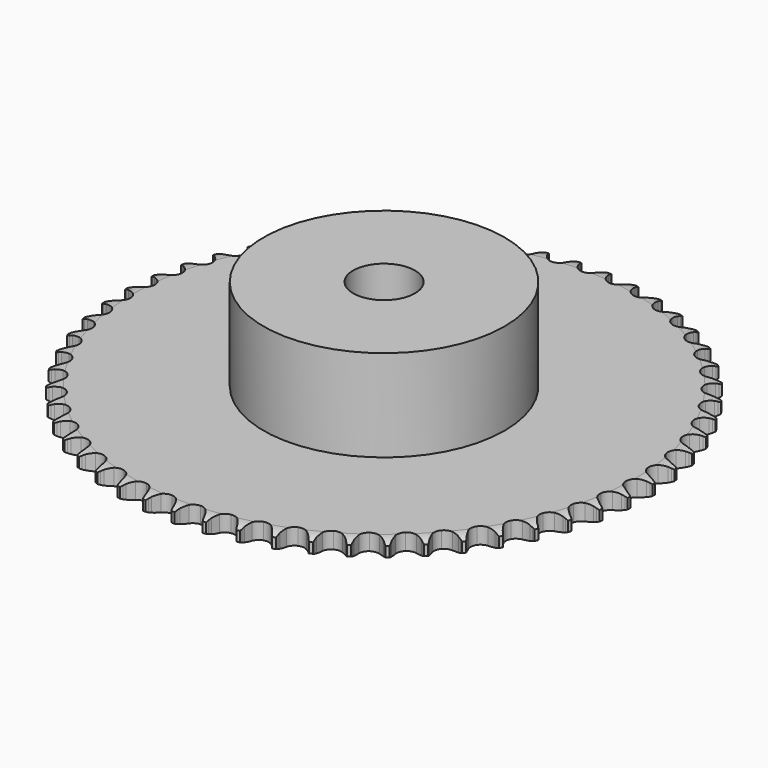
from build123d import *

# Parameters (mm, degrees)
PAD_DEPTH         = 5.3
SKETCH001_R       = 39
PAD001_DEPTH      = 35
SKETCH002_R       = 10
POCKET_DEPTH      = 0.001
POCKET_DEPTH_BACK = 35.001


with BuildPart() as part:
    # Sprocket → Pad (new body)
    with BuildSketch(Plane.XY):
        with BuildLine():
            ThreePointArc((-4.925954, 86.145077), (-4.421445, 85.403677), (-4.054538, 84.585397))
            Line((-4.054538, 84.585397), (-3.746062, 83.695027))
            ThreePointArc((-3.746062, 83.695027), (-3.25838, 82.565603), (-2.609281, 81.520566))
            ThreePointArc((-2.609281, 81.520566), (-1.463641, 80.544452), (0, 80.193677))
            ThreePointArc((0, 80.193677), (1.463641, 80.544452), (2.609281, 81.520566))
            ThreePointArc((2.609281, 81.520566), (3.25838, 82.565603), (3.746062, 83.695027))
            Line((3.746062, 83.695027), (4.054538, 84.585397))
            ThreePointArc((4.054538, 84.585397), (4.421445, 85.403677), (4.925954, 86.145077))
            ThreePointArc((4.925954, 86.145077), (5.34266, 85.351), (5.613899, 84.49623))
            Line((5.613899, 84.49623), (5.81887, 83.5765))
            ThreePointArc((5.81887, 83.5765), (6.174629, 82.398846), (6.700371, 81.286629))
            ThreePointArc((6.700371, 81.286629), (7.727275, 80.186285), (9.14139, 79.670953))
            ThreePointArc((9.14139, 79.670953), (10.635476, 79.8526), (11.884917, 80.691757))
            Line((11.884917, 80.691757), (13.262158, 82.722462))
            ThreePointArc((13.262158, 82.722462), (13.454088, 83.152951), (13.670119, 83.571865))
            ThreePointArc((13.670119, 83.571865), (14.127911, 84.342986), (14.713644, 85.022044))
            ThreePointArc((14.713644, 85.022044), (15.037116, 84.185642), (15.20915, 83.305525))
            Line((15.20915, 83.305525), (15.307944, 82.368425))
            ThreePointArc((15.307944, 82.368425), (15.527141, 81.157894), (15.922674, 79.992996))
            ThreePointArc((15.922674, 79.992996), (16.817454, 78.782766), (18.163609, 78.109597))
            ThreePointArc((18.163609, 78.109597), (19.668662, 78.119746), (21.005615, 78.811009))
            Line((21.005615, 78.811009), (22.605362, 80.671483))
            ThreePointArc((22.605362, 80.671483), (22.845113, 81.077288), (23.107488, 81.468845))
            ThreePointArc((23.107488, 81.468845), (23.650197, 82.182756), (24.309519, 82.790619))
            ThreePointArc((24.309519, 82.790619), (24.53554, 81.922796), (24.606127, 81.028805))
            Line((24.606127, 81.028805), (24.597456, 80.086551))
            ThreePointArc((24.597456, 80.086551), (24.677234, 78.858924), (24.9374, 77.656533))
            ThreePointArc((24.9374, 77.656533), (25.688392, 76.352194), (26.949036, 75.529963))
            ThreePointArc((26.949036, 75.529963), (28.445436, 75.368483), (29.852473, 75.902838))
            Line((29.852473, 75.902838), (31.65387, 77.568828))
            ThreePointArc((31.65387, 77.568828), (31.938316, 77.944658), (32.243616, 78.303754))
            ThreePointArc((32.243616, 78.303754), (32.864167, 78.951148), (33.588483, 79.479891))
            ThreePointArc((33.588483, 79.479891), (33.714106, 78.591961), (33.682326, 77.69575))
            Line((33.682326, 77.69575), (33.566302, 76.760627))
            ThreePointArc((33.566302, 76.760627), (33.505621, 75.531908), (33.627029, 74.307697))
            ThreePointArc((33.627029, 74.307697), (34.224443, 72.926254), (35.383142, 71.96568))
            ThreePointArc((35.383142, 71.96568), (36.851381, 71.634675), (38.310158, 72.005158))
            Line((38.310158, 72.005158), (40.289722, 73.454944))
            ThreePointArc((40.289722, 73.454944), (40.615155, 73.7959), (40.959399, 74.117855))
            ThreePointArc((40.959399, 74.117855), (41.649703, 74.69029), (42.429569, 75.133022))
            ThreePointArc((42.429569, 75.133022), (42.453157, 74.236559), (42.319423, 73.349813))
            Line((42.319423, 73.349813), (42.09756, 72.434011))
            ThreePointArc((42.09756, 72.434011), (41.897211, 71.220218), (41.878278, 69.990148))
            ThreePointArc((41.878278, 69.990148), (42.314325, 68.549609), (43.355975, 67.463214))
            ThreePointArc((43.355975, 67.463214), (44.776912, 66.967001), (46.268412, 67.16878))
            Line((46.268412, 67.16878), (48.400336, 68.383463))
            ThreePointArc((48.400336, 68.383463), (48.762514, 68.6851), (49.141213, 68.965715))
            ThreePointArc((49.141213, 68.965715), (49.89227, 69.455731), (50.717521, 69.806679))
            ThreePointArc((50.717521, 69.806679), (50.638766, 68.91337), (50.404823, 68.047649))
            Line((50.404823, 68.047649), (50.080012, 67.163107))
            ThreePointArc((50.080012, 67.163107), (49.742607, 65.980064), (49.58358, 64.760169))
            ThreePointArc((49.58358, 64.760169), (49.852576, 63.279315), (50.763596, 62.081262))
            ThreePointArc((50.763596, 62.081262), (52.118707, 61.426309), (53.623486, 61.456755))
            Line((53.623486, 61.456755), (55.879977, 62.420499))
            ThreePointArc((55.879977, 62.420499), (56.274178, 62.678885), (56.682397, 62.914502))
            ThreePointArc((56.682397, 62.914502), (57.484416, 63.31571), (58.344292, 63.570299))
            ThreePointArc((58.344292, 63.570299), (58.164222, 62.69179), (57.833118, 61.85838))
            Line((57.833118, 61.85838), (57.409595, 61.016629))
            ThreePointArc((57.409595, 61.016629), (56.939533, 59.879758), (56.642484, 58.685943))
            ThreePointArc((56.642484, 58.685943), (56.740922, 57.184078), (57.509436, 55.889986))
            ThreePointArc((57.509436, 55.889986), (58.781055, 55.084831), (60.279496, 54.943546))
            Line((60.279496, 54.943546), (62.631137, 55.643789))
            ThreePointArc((62.631137, 55.643789), (63.052223, 55.855554), (63.484639, 56.043103))
            ThreePointArc((63.484639, 56.043103), (64.327164, 56.350272), (65.210457, 56.505182))
            ThreePointArc((65.210457, 56.505182), (64.931417, 55.652927), (64.507471, 54.862692))
            Line((64.507471, 54.862692), (63.990755, 54.074706))
            ThreePointArc((63.990755, 54.074706), (63.394164, 52.998829), (62.962967, 51.846656))
            ThreePointArc((62.962967, 51.846656), (62.889563, 50.34336), (63.505553, 48.970099))
            ThreePointArc((63.505553, 48.970099), (64.677102, 48.025238), (66.149671, 47.714065))
            Line((66.149671, 47.714065), (68.565805, 48.141676))
            ThreePointArc((68.565805, 48.141676), (69.008285, 48.304061), (69.459261, 48.441095))
            ThreePointArc((69.459261, 48.441095), (70.33131, 48.650222), (71.226503, 48.703435))
            ThreePointArc((71.226503, 48.703435), (70.852133, 47.888543), (70.34087, 47.151784))
            Line((70.34087, 47.151784), (69.737698, 46.427836))
            ThreePointArc((69.737698, 46.427836), (69.022355, 45.426978), (68.462631, 44.331468))
            ThreePointArc((68.462631, 44.331468), (68.218343, 42.846338), (68.673778, 41.411811))
            ThreePointArc((68.673778, 41.411811), (69.729984, 40.339563), (71.157483, 39.862558))
            Line((71.157483, 39.862558), (73.606612, 40.011963))
            ThreePointArc((73.606612, 40.011963), (74.064719, 40.122851), (74.528376, 40.207584))
            ThreePointArc((74.528376, 40.207584), (75.418579, 40.315941), (76.314003, 40.266763))
            ThreePointArc((76.314003, 40.266763), (75.849182, 39.499858), (75.257267, 38.826182))
            Line((75.257267, 38.826182), (74.575504, 38.175709))
            ThreePointArc((74.575504, 38.175709), (73.750734, 37.262918), (73.06978, 36.238352))
            ThreePointArc((73.06978, 36.238352), (72.657792, 34.790749), (72.946734, 33.313657))
            ThreePointArc((72.946734, 33.313657), (73.873829, 32.128), (75.237649, 31.491381))
            Line((75.237649, 31.491381), (77.687845, 31.360633))
            ThreePointArc((77.687845, 31.360633), (78.155606, 31.418578), (78.6259, 31.449906))
            ThreePointArc((78.6259, 31.449906), (79.522652, 31.456081), (80.406633, 31.305153))
            ThreePointArc((80.406633, 31.305153), (79.857422, 30.596232), (79.192572, 29.99442))
            Line((79.192572, 29.99442), (78.441104, 29.425902))
            ThreePointArc((78.441104, 29.425902), (77.51766, 28.613078), (76.724353, 27.672814))
            ThreePointArc((76.724353, 27.672814), (76.150036, 26.28161), (76.268719, 24.781209))
            ThreePointArc((76.268719, 24.781209), (77.054616, 23.497599), (78.336977, 22.709667))
            Line((78.336977, 22.709667), (80.756298, 22.300469))
            ThreePointArc((80.756298, 22.300469), (81.227615, 22.304716), (81.698414, 22.28223))
            ThreePointArc((81.698414, 22.28223), (82.590025, 22.186143), (83.45104, 21.935432))
            ThreePointArc((83.45104, 21.935432), (82.824598, 21.293738), (82.09548, 20.771636))
            Line((82.09548, 20.771636), (81.284104, 20.292484))
            ThreePointArc((81.284104, 20.292484), (80.274024, 19.590223), (79.378706, 18.746518))
            ThreePointArc((79.378706, 18.746518), (78.649548, 17.429849), (78.596424, 15.9257))
            ThreePointArc((78.596424, 15.9257), (79.230878, 14.560871), (80.415063, 13.631896))
            Line((80.415063, 13.631896), (82.771969, 12.949585))
            ThreePointArc((82.771969, 12.949585), (83.240698, 12.900077), (83.705865, 12.824071))
            ThreePointArc((83.705865, 12.824071), (84.580711, 12.626974), (85.407535, 12.27975))
            ThreePointArc((85.407535, 12.27975), (84.712028, 11.713647), (83.928148, 11.278061))
            Line((83.928148, 11.278061), (83.067442, 10.894523))
            ThreePointArc((83.067442, 10.894523), (81.983894, 10.311979), (80.998237, 9.575833))
            ThreePointArc((80.998237, 9.575833), (80.123742, 8.350864), (79.899505, 6.862575))
            ThreePointArc((79.899505, 6.862575), (80.374244, 5.43432), (81.444816, 4.376414))
            Line((81.444816, 4.376414), (83.70858, 3.429882))
            ThreePointArc((83.70858, 3.429882), (84.168611, 3.327267), (84.622082, 3.198731))
            ThreePointArc((84.622082, 3.198731), (85.468759, 2.903194), (86.250612, 2.463982))
            ThreePointArc((86.250612, 2.463982), (85.495108, 1.980851), (84.666684, 1.63746))
            Line((84.666684, 1.63746), (83.767868, 1.354535))
            ThreePointArc((83.767868, 1.354535), (82.624979, 0.899304), (81.561832, 0.280311))
            ThreePointArc((81.561832, 0.280311), (80.553401, -0.836987), (80.160973, -2.290015))
            ThreePointArc((80.160973, -2.290015), (80.46981, -3.763076), (81.41281, -4.936122))
            Line((81.41281, -4.936122), (83.553923, -6.134534))
            ThreePointArc((83.553923, -6.134534), (83.999257, -6.28892), (84.435121, -6.46831))
            ThreePointArc((84.435121, -6.46831), (85.24259, -6.858434), (85.969281, -7.383908))
            ThreePointArc((85.969281, -7.383908), (85.163628, -7.777769), (84.301461, -8.024488))
            Line((84.301461, -8.024488), (83.376253, -8.203112))
            ThreePointArc((83.376253, -8.203112), (82.18892, -8.525096), (81.062143, -9.018864))
            ThreePointArc((81.062143, -9.018864), (79.932924, -10.013927), (79.377421, -11.41275))
            ThreePointArc((79.377421, -11.41275), (79.516328, -12.911414), (80.319464, -14.184308))
            Line((80.319464, -14.184308), (82.310012, -15.618977))
            ThreePointArc((82.310012, -15.618977), (82.734845, -15.823121), (83.147419, -16.051026))
            ThreePointArc((83.147419, -16.051026), (83.905153, -16.530652), (84.567208, -17.135537))
            ThreePointArc((84.567208, -17.135537), (83.72191, -17.434993), (82.837239, -17.581825))
            Line((82.837239, -17.581825), (81.8977, -17.653818))
            ThreePointArc((81.8977, -17.653818), (80.681403, -17.838358), (79.505686, -18.200465))
            ThreePointArc((79.505686, -18.200465), (78.270398, -19.060321), (77.559062, -20.386703))
            ThreePointArc((77.559062, -20.386703), (77.526229, -21.891432), (78.179032, -23.24758))
            Line((78.179032, -23.24758), (79.993065, -24.899802))
            ThreePointArc((79.993065, -24.899802), (80.391858, -25.151043), (80.775763, -25.424493))
            ThreePointArc((80.775763, -25.424493), (81.473885, -25.987368), (82.062672, -26.663779))
            ThreePointArc((82.062672, -26.663779), (81.188749, -26.864926), (80.293107, -26.909955))
            Line((80.293107, -26.909955), (79.351485, -26.87438))
            ThreePointArc((79.351485, -26.87438), (78.122081, -26.91907), (76.91275, -27.144794))
            ThreePointArc((76.91275, -27.144794), (75.587498, -27.858233), (74.729603, -29.094884))
            ThreePointArc((74.729603, -29.094884), (74.525457, -30.586062), (75.019416, -32.007784))
            Line((75.019416, -32.007784), (76.633285, -33.856021))
            ThreePointArc((76.633285, -33.856021), (77.000839, -34.151083), (77.351071, -34.466512))
            ThreePointArc((77.351071, -34.466512), (77.98048, -35.105298), (78.488324, -35.844417))
            ThreePointArc((78.488324, -35.844417), (77.597168, -35.944633), (76.702231, -35.887274))
            Line((76.702231, -35.887274), (75.770803, -35.744594))
            ThreePointArc((75.770803, -35.744594), (74.544318, -35.64885), (73.317139, -35.73525))
            ThreePointArc((73.317139, -35.73525), (71.919199, -36.292972), (70.925929, -37.423769))
            ThreePointArc((70.925929, -37.423769), (70.553132, -38.881956), (70.881807, -40.350718))
            Line((70.881807, -40.350718), (72.274473, -42.370875))
            ThreePointArc((72.274473, -42.370875), (72.605997, -42.705912), (72.91799, -43.059208))
            ThreePointArc((72.91799, -43.059208), (73.47048, -43.765577), (73.890761, -44.557768))
            ThreePointArc((73.890761, -44.557768), (72.99399, -44.555747), (72.111425, -44.396746))
            Line((72.111425, -44.396746), (71.202332, -44.148822))
            ThreePointArc((71.202332, -44.148822), (69.994755, -43.913894), (68.765727, -43.859842))
            ThreePointArc((68.765727, -43.859842), (67.313324, -44.254575), (66.197627, -45.264777))
            ThreePointArc((66.197627, -45.264777), (65.661039, -46.670964), (65.820145, -48.167619))
            Line((65.820145, -48.167619), (66.973454, -50.333359))
            ThreePointArc((66.973454, -50.333359), (67.264625, -50.704003), (67.534312, -51.090561))
            ThreePointArc((67.534312, -51.090561), (68.00268, -51.855305), (68.329919, -52.690241))
            ThreePointArc((68.329919, -52.690241), (67.439224, -52.586009), (66.580536, -52.32744))
            Line((66.580536, -52.32744), (65.70563, -51.977502))
            ThreePointArc((65.70563, -51.977502), (64.532704, -51.606452), (63.317848, -51.412654))
            ThreePointArc((63.317848, -51.412654), (61.829916, -51.639253), (60.606337, -52.51569))
            ThreePointArc((60.606337, -52.51569), (59.912954, -53.851545), (59.900417, -55.35658))
            Line((59.900417, -55.35658), (60.799332, -57.639672))
            ThreePointArc((60.799332, -57.639672), (61.046356, -58.041091), (61.27022, -58.455871))
            ThreePointArc((61.27022, -58.455871), (61.648361, -59.26902), (61.878292, -60.135816))
            ThreePointArc((61.878292, -60.135816), (61.005283, -59.930732), (60.181668, -59.575965))
            Line((60.181668, -59.575965), (59.352355, -59.128576))
            ThreePointArc((59.352355, -59.128576), (58.229371, -58.626242), (57.044525, -58.295224))
            ThreePointArc((57.044525, -58.295224), (55.540461, -58.350734), (54.224952, -59.081981))
            ThreePointArc((54.224952, -59.081981), (53.383812, -60.330089), (53.199796, -61.823885))
            Line((53.199796, -61.823885), (53.832599, -64.194563))
            ThreePointArc((53.832599, -64.194563), (54.032254, -64.621524), (54.207377, -65.059119))
            ThreePointArc((54.207377, -65.059119), (54.490362, -65.910073), (54.619986, -66.797428))
            ThreePointArc((54.619986, -66.797428), (53.776046, -66.494166), (52.99824, -66.047826))
            Line((52.99824, -66.047826), (52.22533, -65.508819))
            ThreePointArc((52.22533, -65.508819), (51.166929, -64.881748), (50.027539, -64.417826))
            ThreePointArc((50.027539, -64.417826), (48.526952, -64.301524), (47.136661, -64.878048))
            ThreePointArc((47.136661, -64.878048), (46.158731, -66.022137), (45.805634, -67.48522))
            Line((45.805634, -67.48522), (46.164075, -69.912579))
            ThreePointArc((46.164075, -69.912579), (46.313759, -70.359516), (46.437859, -70.814222))
            ThreePointArc((46.437859, -70.814222), (46.621997, -71.691886), (46.649625, -72.588234))
            ThreePointArc((46.649625, -72.588234), (45.845756, -72.190746), (45.123898, -71.658653))
            Line((45.123898, -71.658653), (44.417469, -71.035055))
            ThreePointArc((44.417469, -71.035055), (43.437447, -70.291422), (42.358367, -69.700643))
            ThreePointArc((42.358367, -69.700643), (40.880819, -69.414045), (39.433871, -69.82833))
            ThreePointArc((39.433871, -69.82833), (38.331899, -70.853486), (37.814325, -72.266782))
            Line((37.814325, -72.266782), (37.893732, -74.719178))
            ThreePointArc((37.893732, -74.719178), (37.991493, -75.180265), (38.062951, -75.646153))
            ThreePointArc((38.062951, -75.646153), (38.145844, -76.539087), (38.071116, -77.432741))
            ThreePointArc((38.071116, -77.432741), (37.317796, -76.94621), (36.661298, -76.335299))
            Line((36.661298, -76.335299), (36.030558, -75.635239))
            ThreePointArc((36.030558, -75.635239), (35.141692, -74.78474), (34.13699, -74.074806))
            ThreePointArc((34.13699, -74.074806), (32.701742, -73.621648), (31.217001, -73.868293))
            ThreePointArc((31.217001, -73.868293), (30.005353, -74.761152), (29.330049, -76.106236))
            Line((29.330049, -76.106236), (29.129386, -78.551699))
            ThreePointArc((29.129386, -78.551699), (29.17395, -79.020924), (29.191835, -79.491921))
            ThreePointArc((29.191835, -79.491921), (29.1724, -80.388483), (28.996291, -81.267794))
            ThreePointArc((28.996291, -81.267794), (28.303342, -80.698563), (27.720761, -80.016799))
            Line((27.720761, -80.016799), (27.173934, -79.249403))
            ThreePointArc((27.173934, -79.249403), (26.387811, -78.303124), (25.470584, -77.483291))
            ThreePointArc((25.470584, -77.483291), (24.096348, -76.869481), (22.59317, -76.94527))
            ThreePointArc((22.59317, -76.94527), (21.287641, -77.694191), (20.463411, -78.953529))
            Line((20.463411, -78.953529), (19.985294, -81.360178))
            ThreePointArc((19.985294, -81.360178), (19.97608, -81.831424), (19.940159, -82.30139))
            ThreePointArc((19.940159, -82.30139), (19.81865, -83.189893), (19.543455, -84.043398))
            ThreePointArc((19.543455, -84.043398), (18.91991, -83.398886), (18.418842, -82.655157))
            Line((18.418842, -82.655157), (17.963056, -81.830429))
            ThreePointArc((17.963056, -81.830429), (17.289925, -80.800708), (16.472131, -79.881662))
            ThreePointArc((16.472131, -79.881662), (15.176821, -79.115202), (13.674802, -79.019147))
            ThreePointArc((13.674802, -79.019147), (12.292412, -79.614368), (11.330001, -80.771542))
            Line((11.330001, -80.771542), (10.580663, -83.108003))
            ThreePointArc((10.580663, -83.108003), (10.517791, -83.575127), (10.428532, -84.037934))
            ThreePointArc((10.428532, -84.037934), (10.206534, -84.906795), (9.83584, -85.723366))
            ThreePointArc((9.83584, -85.723366), (9.289829, -85.011977), (8.876806, -84.215978))
            Line((8.876806, -84.215978), (8.518002, -83.344671))
            ThreePointArc((8.518002, -83.344671), (7.966638, -82.24493), (7.258938, -81.238653))
            ThreePointArc((7.258938, -81.238653), (6.059441, -80.329535), (4.578162, -80.062889))
            ThreePointArc((4.578162, -80.062889), (3.136933, -80.49665), (2.048887, -81.536575))
            Line((2.048887, -81.536575), (1.038097, -83.772387))
            ThreePointArc((1.038097, -83.772387), (0.922387, -84.2293), (0.780954, -84.678916))
            ThreePointArc((0.780954, -84.678916), (0.46136, -85.516807), (0, -86.2858))
            ThreePointArc((0, -86.2858), (-0.46136, -85.516807), (-0.780954, -84.678916))
            Line((-0.780954, -84.678916), (-1.038097, -83.772387))
            ThreePointArc((-1.038097, -83.772387), (-1.460506, -82.616964), (-2.048887, -81.536575))
            ThreePointArc((-2.048887, -81.536575), (-3.136933, -80.49665), (-4.578162, -80.062889))
            ThreePointArc((-4.578162, -80.062889), (-6.059441, -80.329535), (-7.258938, -81.238653))
            Line((-7.258938, -81.238653), (-8.518002, -83.344671))
            ThreePointArc((-8.518002, -83.344671), (-8.685042, -83.785415), (-8.876806, -84.215978))
            ThreePointArc((-8.876806, -84.215978), (-9.289829, -85.011977), (-9.83584, -85.723366))
            ThreePointArc((-9.83584, -85.723366), (-10.206534, -84.906795), (-10.428532, -84.037934))
            Line((-10.428532, -84.037934), (-10.580663, -83.108003))
            ThreePointArc((-10.580663, -83.108003), (-10.868611, -81.91196), (-11.330001, -80.771542))
            ThreePointArc((-11.330001, -80.771542), (-12.292412, -79.614368), (-13.674802, -79.019147))
            ThreePointArc((-13.674802, -79.019147), (-15.176821, -79.115202), (-16.472131, -79.881662))
            Line((-16.472131, -79.881662), (-17.963056, -81.830429))
            ThreePointArc((-17.963056, -81.830429), (-18.179249, -82.249259), (-18.418842, -82.655157))
            ThreePointArc((-18.418842, -82.655157), (-18.91991, -83.398886), (-19.543455, -84.043398))
            ThreePointArc((-19.543455, -84.043398), (-19.81865, -83.189893), (-19.940159, -82.30139))
            Line((-19.940159, -82.30139), (-19.985294, -81.360178))
            ThreePointArc((-19.985294, -81.360178), (-20.135026, -80.139108), (-20.463411, -78.953529))
            ThreePointArc((-20.463411, -78.953529), (-21.287641, -77.694191), (-22.59317, -76.94527))
            ThreePointArc((-22.59317, -76.94527), (-24.096348, -76.869481), (-25.470584, -77.483291))
            Line((-25.470584, -77.483291), (-27.173934, -79.249403))
            ThreePointArc((-27.173934, -79.249403), (-27.43646, -79.640859), (-27.720761, -80.016799))
            ThreePointArc((-27.720761, -80.016799), (-28.303342, -80.698563), (-28.996291, -81.267794))
            ThreePointArc((-28.996291, -81.267794), (-29.1724, -80.388483), (-29.191835, -79.491921))
            Line((-29.191835, -79.491921), (-29.129386, -78.551699))
            ThreePointArc((-29.129386, -78.551699), (-29.13895, -77.32152), (-29.330049, -76.106236))
            ThreePointArc((-29.330049, -76.106236), (-30.005353, -74.761152), (-31.217001, -73.868293))
            ThreePointArc((-31.217001, -73.868293), (-32.701742, -73.621648), (-34.13699, -74.074806))
            Line((-34.13699, -74.074806), (-36.030558, -75.635239))
            ThreePointArc((-36.030558, -75.635239), (-36.335996, -75.994218), (-36.661298, -76.335299))
            ThreePointArc((-36.661298, -76.335299), (-37.317796, -76.94621), (-38.071116, -77.432741))
            ThreePointArc((-38.071116, -77.432741), (-38.145844, -76.539087), (-38.062951, -75.646153))
            Line((-38.062951, -75.646153), (-37.893732, -74.719178))
            ThreePointArc((-37.893732, -74.719178), (-37.763004, -73.495928), (-37.814325, -72.266782))
            ThreePointArc((-37.814325, -72.266782), (-38.331899, -70.853486), (-39.433871, -69.82833))
            ThreePointArc((-39.433871, -69.82833), (-40.880819, -69.414045), (-42.358367, -69.700643))
            Line((-42.358367, -69.700643), (-44.417469, -71.035055))
            ThreePointArc((-44.417469, -71.035055), (-44.761837, -71.356876), (-45.123898, -71.658653))
            ThreePointArc((-45.123898, -71.658653), (-45.845756, -72.190746), (-46.649625, -72.588234))
            ThreePointArc((-46.649625, -72.588234), (-46.621997, -71.691886), (-46.437859, -70.814222))
            Line((-46.437859, -70.814222), (-46.164075, -69.912579))
            ThreePointArc((-46.164075, -69.912579), (-45.894759, -68.712204), (-45.805634, -67.48522))
            ThreePointArc((-45.805634, -67.48522), (-46.158731, -66.022137), (-47.136661, -64.878048))
            ThreePointArc((-47.136661, -64.878048), (-48.526952, -64.301524), (-50.027539, -64.417826))
            Line((-50.027539, -64.417826), (-52.22533, -65.508819))
            ThreePointArc((-52.22533, -65.508819), (-52.604138, -65.789288), (-52.99824, -66.047826))
            ThreePointArc((-52.99824, -66.047826), (-53.776046, -66.494166), (-54.619986, -66.797428))
            ThreePointArc((-54.619986, -66.797428), (-54.490362, -65.910073), (-54.207377, -65.059119))
            Line((-54.207377, -65.059119), (-53.832599, -64.194563))
            ThreePointArc((-53.832599, -64.194563), (-53.428206, -63.032711), (-53.199796, -61.823885))
            ThreePointArc((-53.199796, -61.823885), (-53.383812, -60.330089), (-54.224952, -59.081981))
            ThreePointArc((-54.224952, -59.081981), (-55.540461, -58.350734), (-57.044525, -58.295224))
            Line((-57.044525, -58.295224), (-59.352355, -59.128576))
            ThreePointArc((-59.352355, -59.128576), (-59.760664, -59.364036), (-60.181668, -59.575965))
            ThreePointArc((-60.181668, -59.575965), (-61.005283, -59.930732), (-61.878292, -60.135816))
            ThreePointArc((-61.878292, -60.135816), (-61.648361, -59.26902), (-61.27022, -58.455871))
            Line((-61.27022, -58.455871), (-60.799332, -57.639672))
            ThreePointArc((-60.799332, -57.639672), (-60.265134, -56.531491), (-59.900417, -55.35658))
            ThreePointArc((-59.900417, -55.35658), (-59.912954, -53.851545), (-60.606337, -52.51569))
            ThreePointArc((-60.606337, -52.51569), (-61.829916, -51.639253), (-63.317848, -51.412654))
            Line((-63.317848, -51.412654), (-65.70563, -51.977502))
            ThreePointArc((-65.70563, -51.977502), (-66.138118, -52.164883), (-66.580536, -52.32744))
            ThreePointArc((-66.580536, -52.32744), (-67.439224, -52.586009), (-68.329919, -52.690241))
            ThreePointArc((-68.329919, -52.690241), (-68.00268, -51.855305), (-67.534312, -51.090561))
            Line((-67.534312, -51.090561), (-66.973454, -50.333359))
            ThreePointArc((-66.973454, -50.333359), (-66.316414, -49.293296), (-65.820145, -48.167619))
            ThreePointArc((-65.820145, -48.167619), (-65.661039, -46.670964), (-66.197627, -45.264777))
            ThreePointArc((-66.197627, -45.264777), (-67.313324, -44.254575), (-68.765727, -43.859842))
            Line((-68.765727, -43.859842), (-71.202332, -44.148822))
            ThreePointArc((-71.202332, -44.148822), (-71.653361, -44.285682), (-72.111425, -44.396746))
            ThreePointArc((-72.111425, -44.396746), (-72.99399, -44.555747), (-73.890761, -44.557768))
            ThreePointArc((-73.890761, -44.557768), (-73.47048, -43.765577), (-72.91799, -43.059208))
            Line((-72.91799, -43.059208), (-72.274473, -42.370875))
            ThreePointArc((-72.274473, -42.370875), (-71.503159, -41.412487), (-70.881807, -40.350718))
            ThreePointArc((-70.881807, -40.350718), (-70.553132, -38.881956), (-70.925929, -37.423769))
            ThreePointArc((-70.925929, -37.423769), (-71.919199, -36.292972), (-73.317139, -35.73525))
            Line((-73.317139, -35.73525), (-75.770803, -35.744594))
            ThreePointArc((-75.770803, -35.744594), (-76.234493, -35.829148), (-76.702231, -35.887274))
            ThreePointArc((-76.702231, -35.887274), (-77.597168, -35.944633), (-78.488324, -35.844417))
            ThreePointArc((-78.488324, -35.844417), (-77.98048, -35.105298), (-77.351071, -34.466512))
            Line((-77.351071, -34.466512), (-76.633285, -33.856021))
            ThreePointArc((-76.633285, -33.856021), (-75.75775, -32.991804), (-75.019416, -32.007784))
            ThreePointArc((-75.019416, -32.007784), (-74.525457, -30.586062), (-74.729603, -29.094884))
            ThreePointArc((-74.729603, -29.094884), (-75.587498, -27.858233), (-76.91275, -27.144794))
            Line((-76.91275, -27.144794), (-79.351485, -26.87438))
            ThreePointArc((-79.351485, -26.87438), (-79.821791, -26.905527), (-80.293107, -26.909955))
            ThreePointArc((-80.293107, -26.909955), (-81.188749, -26.864926), (-82.062672, -26.663779))
            ThreePointArc((-82.062672, -26.663779), (-81.473885, -25.987368), (-80.775763, -25.424493))
            Line((-80.775763, -25.424493), (-79.993065, -24.899802))
            ThreePointArc((-79.993065, -24.899802), (-79.024723, -24.141022), (-78.179032, -23.24758))
            ThreePointArc((-78.179032, -23.24758), (-77.526229, -21.891432), (-77.559062, -20.386703))
            ThreePointArc((-77.559062, -20.386703), (-78.270398, -19.060321), (-79.505686, -18.200465))
            Line((-79.505686, -18.200465), (-81.8977, -17.653818))
            ThreePointArc((-81.8977, -17.653818), (-82.368491, -17.631151), (-82.837239, -17.581825))
            ThreePointArc((-82.837239, -17.581825), (-83.72191, -17.434993), (-84.567208, -17.135537))
            ThreePointArc((-84.567208, -17.135537), (-83.905153, -16.530652), (-83.147419, -16.051026))
            Line((-83.147419, -16.051026), (-82.310012, -15.618977))
            ThreePointArc((-82.310012, -15.618977), (-81.261488, -14.975525), (-80.319464, -14.184308))
            ThreePointArc((-80.319464, -14.184308), (-79.516328, -12.911414), (-79.377421, -11.41275))
            ThreePointArc((-79.377421, -11.41275), (-79.932924, -10.013927), (-81.062143, -9.018864))
            Line((-81.062143, -9.018864), (-83.376253, -8.203112))
            ThreePointArc((-83.376253, -8.203112), (-83.841391, -8.126926), (-84.301461, -8.024488))
            ThreePointArc((-84.301461, -8.024488), (-85.163628, -7.777769), (-85.969281, -7.383908))
            ThreePointArc((-85.969281, -7.383908), (-85.24259, -6.858434), (-84.435121, -6.46831))
            Line((-84.435121, -6.46831), (-83.553923, -6.134534))
            ThreePointArc((-83.553923, -6.134534), (-82.438886, -5.614799), (-81.41281, -4.936122))
            ThreePointArc((-81.41281, -4.936122), (-80.46981, -3.763076), (-80.160973, -2.290015))
            ThreePointArc((-80.160973, -2.290015), (-80.553401, -0.836987), (-81.561832, 0.280311))
            Line((-81.561832, 0.280311), (-83.767868, 1.354535))
            ThreePointArc((-83.767868, 1.354535), (-84.22129, 1.483246), (-84.666684, 1.63746))
            ThreePointArc((-84.666684, 1.63746), (-85.495108, 1.980851), (-86.250612, 2.463982))
            ThreePointArc((-86.250612, 2.463982), (-85.468759, 2.903194), (-84.622082, 3.198731))
            Line((-84.622082, 3.198731), (-83.70858, 3.429882))
            ThreePointArc((-83.70858, 3.429882), (-82.541566, 3.819125), (-81.444816, 4.376414))
            ThreePointArc((-81.444816, 4.376414), (-80.374244, 5.43432), (-79.899505, 6.862575))
            ThreePointArc((-79.899505, 6.862575), (-80.123742, 8.350864), (-80.998237, 9.575833))
            Line((-80.998237, 9.575833), (-83.067442, 10.894523))
            ThreePointArc((-83.067442, 10.894523), (-83.503236, 11.074081), (-83.928148, 11.278061))
            ThreePointArc((-83.928148, 11.278061), (-84.712028, 11.713647), (-85.407535, 12.27975))
            ThreePointArc((-85.407535, 12.27975), (-84.580711, 12.626974), (-83.705865, 12.824071))
            Line((-83.705865, 12.824071), (-82.771969, 12.949585))
            ThreePointArc((-82.771969, 12.949585), (-81.568191, 13.20326), (-80.415063, 13.631896))
            ThreePointArc((-80.415063, 13.631896), (-79.230878, 14.560871), (-78.596424, 15.9257))
            ThreePointArc((-78.596424, 15.9257), (-78.649548, 17.429849), (-79.378706, 18.746518))
            Line((-79.378706, 18.746518), (-81.284104, 20.292484))
            ThreePointArc((-81.284104, 20.292484), (-81.69659, 20.520549), (-82.09548, 20.771636))
            ThreePointArc((-82.09548, 20.771636), (-82.824598, 21.293738), (-83.45104, 21.935432))
            ThreePointArc((-83.45104, 21.935432), (-82.590025, 22.186143), (-81.698414, 22.28223))
            Line((-81.698414, 22.28223), (-80.756298, 22.300469))
            ThreePointArc((-80.756298, 22.300469), (-79.53145, 22.415271), (-78.336977, 22.709667))
            ThreePointArc((-78.336977, 22.709667), (-77.054616, 23.497599), (-76.268719, 24.781209))
            ThreePointArc((-76.268719, 24.781209), (-76.150036, 26.28161), (-76.724353, 27.672814))
            Line((-76.724353, 27.672814), (-78.441104, 29.425902))
            ThreePointArc((-78.441104, 29.425902), (-78.824904, 29.6995), (-79.192572, 29.99442))
            ThreePointArc((-79.192572, 29.99442), (-79.857422, 30.596232), (-80.406633, 31.305153))
            ThreePointArc((-80.406633, 31.305153), (-79.522652, 31.456081), (-78.6259, 31.449906))
            Line((-78.6259, 31.449906), (-77.687845, 31.360633))
            ThreePointArc((-77.687845, 31.360633), (-76.457894, 31.335064), (-75.237649, 31.491381))
            ThreePointArc((-75.237649, 31.491381), (-73.873829, 32.128), (-72.946734, 33.313657))
            ThreePointArc((-72.946734, 33.313657), (-72.657792, 34.790749), (-73.06978, 36.238352))
            Line((-73.06978, 36.238352), (-74.575504, 38.175709))
            ThreePointArc((-74.575504, 38.175709), (-74.925614, 38.491273), (-75.257267, 38.826182))
            ThreePointArc((-75.257267, 38.826182), (-75.849182, 39.499858), (-76.314003, 40.266763))
            ThreePointArc((-76.314003, 40.266763), (-75.418579, 40.315941), (-74.528376, 40.207584))
            Line((-74.528376, 40.207584), (-73.606612, 40.011963))
            ThreePointArc((-73.606612, 40.011963), (-72.387593, 39.846357), (-71.157483, 39.862558))
            ThreePointArc((-71.157483, 39.862558), (-69.729984, 40.339563), (-68.673778, 41.411811))
            ThreePointArc((-68.673778, 41.411811), (-68.218343, 42.846338), (-68.462631, 44.331468))
            Line((-68.462631, 44.331468), (-69.737698, 46.427836))
            ThreePointArc((-69.737698, 46.427836), (-70.049555, 46.781253), (-70.34087, 47.151784))
            ThreePointArc((-70.34087, 47.151784), (-70.852133, 47.888543), (-71.226503, 48.703435))
            ThreePointArc((-71.226503, 48.703435), (-70.33131, 48.650222), (-69.459261, 48.441095))
            Line((-69.459261, 48.441095), (-68.565805, 48.141676))
            ThreePointArc((-68.565805, 48.141676), (-67.373609, 47.838192), (-66.149671, 47.714065))
            ThreePointArc((-66.149671, 47.714065), (-64.677102, 48.025238), (-63.505553, 48.970099))
            ThreePointArc((-63.505553, 48.970099), (-62.889563, 50.34336), (-62.962967, 51.846656))
            Line((-62.962967, 51.846656), (-63.990755, 54.074706))
            ThreePointArc((-63.990755, 54.074706), (-64.260292, 54.461368), (-64.507471, 54.862692))
            ThreePointArc((-64.507471, 54.862692), (-64.931417, 55.652927), (-65.210457, 56.505182))
            ThreePointArc((-65.210457, 56.505182), (-64.327164, 56.350272), (-63.484639, 56.043103))
            Line((-63.484639, 56.043103), (-62.631137, 55.643789))
            ThreePointArc((-62.631137, 55.643789), (-61.481307, 55.206383), (-60.279496, 54.943546))
            ThreePointArc((-60.279496, 54.943546), (-58.781055, 55.084831), (-57.509436, 55.889986))
            ThreePointArc((-57.509436, 55.889986), (-56.740922, 57.184078), (-56.642484, 58.685943))
            Line((-56.642484, 58.685943), (-57.409595, 61.016629))
            ThreePointArc((-57.409595, 61.016629), (-57.633299, 61.431496), (-57.833118, 61.85838))
            ThreePointArc((-57.833118, 61.85838), (-58.164222, 62.69179), (-58.344292, 63.570299))
            ThreePointArc((-58.344292, 63.570299), (-57.484416, 63.31571), (-56.682397, 62.914502))
            Line((-56.682397, 62.914502), (-55.879977, 62.420499))
            ThreePointArc((-55.879977, 62.420499), (-54.787502, 61.854874), (-53.623486, 61.456755))
            ThreePointArc((-53.623486, 61.456755), (-52.118707, 61.426309), (-50.763596, 62.081262))
            ThreePointArc((-50.763596, 62.081262), (-49.852576, 63.279315), (-49.58358, 64.760169))
            Line((-49.58358, 64.760169), (-50.080012, 67.163107))
            ThreePointArc((-50.080012, 67.163107), (-50.254967, 67.60077), (-50.404823, 68.047649))
            ThreePointArc((-50.404823, 68.047649), (-50.638766, 68.91337), (-50.717521, 69.806679))
            ThreePointArc((-50.717521, 69.806679), (-49.89227, 69.455731), (-49.141213, 68.965715))
            Line((-49.141213, 68.965715), (-48.400336, 68.383463))
            ThreePointArc((-48.400336, 68.383463), (-47.379459, 67.696992), (-46.268412, 67.16878))
            ThreePointArc((-46.268412, 67.16878), (-44.776912, 66.967001), (-43.355975, 67.463214))
            ThreePointArc((-43.355975, 67.463214), (-42.314325, 68.549609), (-41.878278, 69.990148))
            Line((-41.878278, 69.990148), (-42.09756, 72.434011))
            ThreePointArc((-42.09756, 72.434011), (-42.221484, 72.888765), (-42.319423, 73.349813))
            ThreePointArc((-42.319423, 73.349813), (-42.453157, 74.236559), (-42.429569, 75.133022))
            ThreePointArc((-42.429569, 75.133022), (-41.649703, 74.69029), (-40.959399, 74.117855))
            Line((-40.959399, 74.117855), (-40.289722, 73.454944))
            ThreePointArc((-40.289722, 73.454944), (-39.353751, 72.656576), (-38.310158, 72.005158))
            ThreePointArc((-38.310158, 72.005158), (-36.851381, 71.634675), (-35.383142, 71.96568))
            ThreePointArc((-35.383142, 71.96568), (-34.224443, 72.926254), (-33.627029, 74.307697))
            Line((-33.627029, 74.307697), (-33.566302, 76.760627))
            ThreePointArc((-33.566302, 76.760627), (-33.637581, 77.226543), (-33.682326, 77.69575))
            ThreePointArc((-33.682326, 77.69575), (-33.714106, 78.591961), (-33.588483, 79.479891))
            ThreePointArc((-33.588483, 79.479891), (-32.864167, 78.951148), (-32.243616, 78.303754))
            Line((-32.243616, 78.303754), (-31.65387, 77.568828))
            ThreePointArc((-31.65387, 77.568828), (-30.815008, 76.668971), (-29.852473, 75.902838))
            ThreePointArc((-29.852473, 75.902838), (-28.445436, 75.368483), (-26.949036, 75.529963))
            ThreePointArc((-26.949036, 75.529963), (-25.688392, 76.352194), (-24.9374, 77.656533))
            Line((-24.9374, 77.656533), (-24.597456, 80.086551))
            ThreePointArc((-24.597456, 80.086551), (-24.615159, 80.557555), (-24.606127, 81.028805))
            ThreePointArc((-24.606127, 81.028805), (-24.53554, 81.922796), (-24.309519, 82.790619))
            ThreePointArc((-24.309519, 82.790619), (-23.650197, 82.182756), (-23.107488, 81.468845))
            Line((-23.107488, 81.468845), (-22.605362, 80.671483))
            ThreePointArc((-22.605362, 80.671483), (-21.874543, 79.681869), (-21.005615, 78.811009))
            ThreePointArc((-21.005615, 78.811009), (-19.668662, 78.119746), (-18.163609, 78.109597))
            ThreePointArc((-18.163609, 78.109597), (-16.817454, 78.782766), (-15.922674, 79.992996))
            Line((-15.922674, 79.992996), (-15.307944, 82.368425))
            ThreePointArc((-15.307944, 82.368425), (-15.271842, 82.838376), (-15.20915, 83.305525))
            ThreePointArc((-15.20915, 83.305525), (-15.037116, 84.185642), (-14.713644, 85.022044))
            ThreePointArc((-14.713644, 85.022044), (-14.127911, 84.342986), (-13.670119, 83.571865))
            Line((-13.670119, 83.571865), (-13.262158, 82.722462))
            ThreePointArc((-13.262158, 82.722462), (-12.64891, 81.655991), (-11.884917, 80.691757))
            ThreePointArc((-11.884917, 80.691757), (-10.635476, 79.8526), (-9.14139, 79.670953))
            ThreePointArc((-9.14139, 79.670953), (-7.727275, 80.186285), (-6.700371, 81.286629))
            Line((-6.700371, 81.286629), (-5.81887, 83.5765))
            ThreePointArc((-5.81887, 83.5765), (-5.729433, 84.039273), (-5.613899, 84.49623))
            ThreePointArc((-5.613899, 84.49623), (-5.34266, 85.351), (-4.925954, 86.145077))
        make_face()
    extrude(amount=PAD_DEPTH)

    # Sketch → Groove (revolve, cut)
    with BuildSketch(Plane.XZ):
        with BuildLine():
            Line((81.041101, 0), (85.4, 0))
            Line((89.758899, 0), (85.4, 0))
            Line((89.758899, 5.3), (89.758899, 0))
            Line((85.4, 5.3), (89.758899, 5.3))
            Line((81.041101, 5.3), (85.4, 5.3))
            ThreePointArc((85.4, 4.3), (83.277169, 5.046794), (81.041101, 5.3))
            Line((85.4, 1), (85.4, 4.3))
            ThreePointArc((81.041101, 0), (83.277169, 0.253206), (85.4, 1))
        make_face()
    revolve(axis=Axis((0, 0, 0), (0, 0, 1)), mode=Mode.SUBTRACT)

    # Sketch001 → Pad001 (join)
    with BuildSketch(Plane.XY):
        Circle(SKETCH001_R)
    extrude(amount=PAD001_DEPTH)

    # Sketch002 → Pocket (cut, two sides)
    with BuildSketch(Plane.XY) as pocket_sk:
        Circle(SKETCH002_R)
    extrude(amount=-POCKET_DEPTH, mode=Mode.SUBTRACT)
    extrude(pocket_sk.sketch, amount=POCKET_DEPTH_BACK, mode=Mode.SUBTRACT)


solid = part.part
